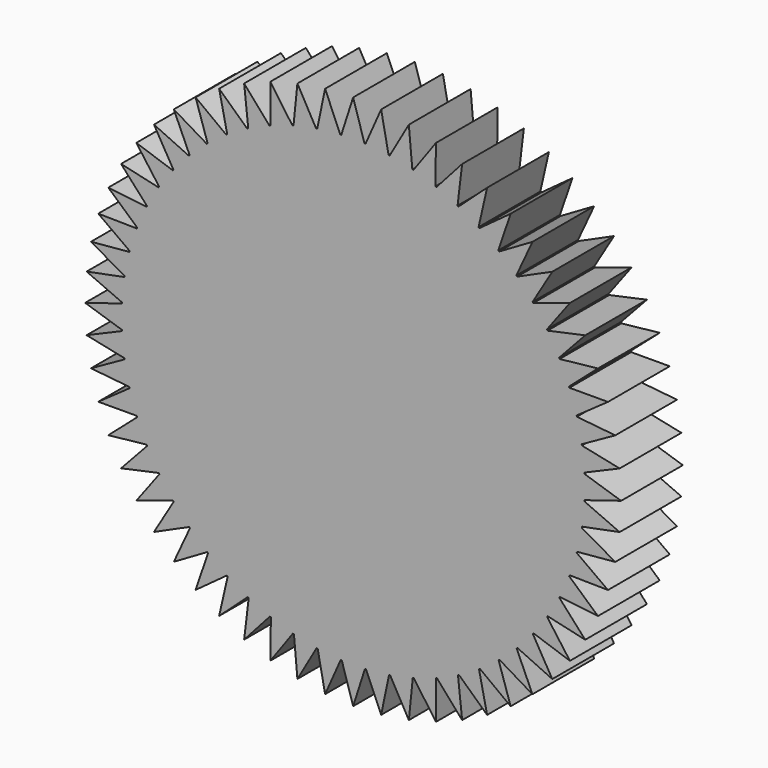
from build123d import *

# Parameters (mm, degrees)
F1_DEPTH = 12.7


with BuildPart() as f1:
    # F0 (on Front) → F1 (new body, symmetric)
    with BuildSketch(Plane.XZ):
        with BuildLine():
            ThreePointArc((76.108536, -3.732395), (76.177131, -1.866758), (76.2, 0))
            ThreePointArc((76.2, 0), (76.175187, 1.944436), (76.100766, 3.887605))
            ThreePointArc((76.100766, 3.887605), (76.091464, 4.065594), (76.081747, 4.24356))
            ThreePointArc((76.081747, 4.24356), (75.774407, 8.042342), (75.277512, 11.821005))
            ThreePointArc((75.277512, 11.821005), (75.249657, 11.997046), (75.22139, 12.173021))
            ThreePointArc((75.22139, 12.173021), (74.518653, 15.918867), (73.629503, 19.624891))
            ThreePointArc((73.629503, 19.624891), (73.583399, 19.797056), (73.536892, 19.969113))
            ThreePointArc((73.536892, 19.969113), (72.446457, 23.620982), (71.174793, 27.213762))
            ThreePointArc((71.174793, 27.213762), (71.110945, 27.380165), (71.046709, 27.546418))
            ThreePointArc((71.046709, 27.546418), (69.580523, 31.064301), (67.940277, 34.504474))
            ThreePointArc((67.940277, 34.504474), (67.859386, 34.663291), (67.778123, 34.821919))
            ThreePointArc((67.778123, 34.821919), (65.95225, 38.167272), (63.961394, 41.417148))
            ThreePointArc((63.961394, 41.417148), (63.864344, 41.56664), (63.766946, 41.715904))
            ThreePointArc((63.766946, 41.715904), (61.601391, 44.852076), (59.281736, 47.876046))
            ThreePointArc((59.281736, 47.876046), (59.169592, 48.014575), (59.057124, 48.152841))
            ThreePointArc((59.057124, 48.152841), (56.575613, 51.04547), (53.952575, 53.810405))
            ThreePointArc((53.952575, 53.810405), (53.826565, 53.936453), (53.700261, 54.062205))
            ThreePointArc((53.700261, 54.062205), (50.929982, 56.679599), (48.032298, 59.155206))
            ThreePointArc((48.032298, 59.155206), (47.893803, 59.267391), (47.755046, 59.379252))
            ThreePointArc((47.755046, 59.379252), (44.72635, 61.692735), (41.585769, 63.85189))
            ThreePointArc((41.585769, 63.85189), (41.436306, 63.948984), (41.286617, 64.045728))
            ThreePointArc((41.286617, 64.045728), (38.032688, 66.029953), (34.683618, 67.848999))
            ThreePointArc((34.683618, 67.848999), (34.524825, 67.929938), (34.365843, 68.010506))
            ThreePointArc((34.365843, 68.010506), (30.922331, 69.643732), (27.401466, 71.10274))
            ThreePointArc((27.401466, 71.10274), (27.235082, 71.166638), (27.068549, 71.230146))
            ThreePointArc((27.068549, 71.230146), (23.473183, 72.49448), (19.819098, 73.577465))
            ThreePointArc((19.819098, 73.577465), (19.646946, 73.623621), (19.474687, 73.669373))
            ThreePointArc((19.474687, 73.669373), (15.766858, 74.550964), (12.019587, 75.24606))
            ThreePointArc((12.019587, 75.24606), (11.843554, 75.273968), (11.667457, 75.301464))
            ThreePointArc((11.667457, 75.301464), (7.887788, 75.790651), (4.088388, 76.090243))
            ThreePointArc((4.088388, 76.090243), (3.910402, 76.099598), (3.732395, 76.108536))
            ThreePointArc((3.732395, 76.108536), (-0.077702, 76.19996), (-3.887605, 76.100766))
            ThreePointArc((-3.887605, 76.100766), (-4.065594, 76.091464), (-4.24356, 76.081747))
            ThreePointArc((-4.24356, 76.081747), (-8.042342, 75.774407), (-11.821005, 75.277512))
            ThreePointArc((-11.821005, 75.277512), (-11.997046, 75.249657), (-12.173021, 75.22139))
            ThreePointArc((-12.173021, 75.22139), (-15.918867, 74.518653), (-19.624891, 73.629503))
            ThreePointArc((-19.624891, 73.629503), (-19.797056, 73.583399), (-19.969113, 73.536892))
            ThreePointArc((-19.969113, 73.536892), (-23.620982, 72.446457), (-27.213762, 71.174793))
            ThreePointArc((-27.213762, 71.174793), (-27.380165, 71.110945), (-27.546418, 71.046709))
            ThreePointArc((-27.546418, 71.046709), (-31.064301, 69.580523), (-34.504474, 67.940277))
            ThreePointArc((-34.504474, 67.940277), (-34.663291, 67.859386), (-34.821919, 67.778123))
            ThreePointArc((-34.821919, 67.778123), (-38.167272, 65.95225), (-41.417148, 63.961394))
            ThreePointArc((-41.417148, 63.961394), (-41.56664, 63.864344), (-41.715904, 63.766946))
            ThreePointArc((-41.715904, 63.766946), (-44.852076, 61.601391), (-47.876046, 59.281736))
            ThreePointArc((-47.876046, 59.281736), (-48.014575, 59.169592), (-48.152841, 59.057124))
            ThreePointArc((-48.152841, 59.057124), (-51.04547, 56.575613), (-53.810405, 53.952575))
            ThreePointArc((-53.810405, 53.952575), (-53.936453, 53.826565), (-54.062205, 53.700261))
            ThreePointArc((-54.062205, 53.700261), (-56.679599, 50.929982), (-59.155206, 48.032298))
            ThreePointArc((-59.155206, 48.032298), (-59.267391, 47.893803), (-59.379252, 47.755046))
            ThreePointArc((-59.379252, 47.755046), (-61.692735, 44.72635), (-63.85189, 41.585769))
            ThreePointArc((-63.85189, 41.585769), (-63.948984, 41.436306), (-64.045728, 41.286617))
            ThreePointArc((-64.045728, 41.286617), (-66.029953, 38.032688), (-67.848999, 34.683618))
            ThreePointArc((-67.848999, 34.683618), (-67.929938, 34.524825), (-68.010506, 34.365843))
            ThreePointArc((-68.010506, 34.365843), (-69.643732, 30.922331), (-71.10274, 27.401466))
            ThreePointArc((-71.10274, 27.401466), (-71.166638, 27.235082), (-71.230146, 27.068549))
            ThreePointArc((-71.230146, 27.068549), (-72.49448, 23.473183), (-73.577465, 19.819098))
            ThreePointArc((-73.577465, 19.819098), (-73.623621, 19.646946), (-73.669373, 19.474687))
            ThreePointArc((-73.669373, 19.474687), (-74.550964, 15.766858), (-75.24606, 12.019587))
            ThreePointArc((-75.24606, 12.019587), (-75.273968, 11.843554), (-75.301464, 11.667457))
            ThreePointArc((-75.301464, 11.667457), (-75.790651, 7.887788), (-76.090243, 4.088388))
            ThreePointArc((-76.090243, 4.088388), (-76.099598, 3.910402), (-76.108536, 3.732395))
            ThreePointArc((-76.108536, 3.732395), (-76.19996, -0.077702), (-76.100766, -3.887605))
            ThreePointArc((-76.100766, -3.887605), (-76.091464, -4.065594), (-76.081747, -4.24356))
            ThreePointArc((-76.081747, -4.24356), (-75.774407, -8.042342), (-75.277512, -11.821005))
            ThreePointArc((-75.277512, -11.821005), (-75.249657, -11.997046), (-75.22139, -12.173021))
            ThreePointArc((-75.22139, -12.173021), (-74.518653, -15.918867), (-73.629503, -19.624891))
            ThreePointArc((-73.629503, -19.624891), (-73.583399, -19.797056), (-73.536892, -19.969113))
            ThreePointArc((-73.536892, -19.969113), (-72.446457, -23.620982), (-71.174793, -27.213762))
            ThreePointArc((-71.174793, -27.213762), (-71.110945, -27.380165), (-71.046709, -27.546418))
            ThreePointArc((-71.046709, -27.546418), (-69.580523, -31.064301), (-67.940277, -34.504474))
            ThreePointArc((-67.940277, -34.504474), (-67.859386, -34.663291), (-67.778123, -34.821919))
            ThreePointArc((-67.778123, -34.821919), (-65.95225, -38.167272), (-63.961394, -41.417148))
            ThreePointArc((-63.961394, -41.417148), (-63.864344, -41.56664), (-63.766946, -41.715904))
            ThreePointArc((-63.766946, -41.715904), (-61.601391, -44.852076), (-59.281736, -47.876046))
            ThreePointArc((-59.281736, -47.876046), (-59.169592, -48.014575), (-59.057124, -48.152841))
            ThreePointArc((-59.057124, -48.152841), (-56.575613, -51.04547), (-53.952575, -53.810405))
            ThreePointArc((-53.952575, -53.810405), (-53.826565, -53.936453), (-53.700261, -54.062205))
            ThreePointArc((-53.700261, -54.062205), (-50.929982, -56.679599), (-48.032298, -59.155206))
            ThreePointArc((-48.032298, -59.155206), (-47.893803, -59.267391), (-47.755046, -59.379252))
            ThreePointArc((-47.755046, -59.379252), (-44.72635, -61.692735), (-41.585769, -63.85189))
            ThreePointArc((-41.585769, -63.85189), (-41.436306, -63.948984), (-41.286617, -64.045728))
            ThreePointArc((-41.286617, -64.045728), (-38.032688, -66.029953), (-34.683618, -67.848999))
            ThreePointArc((-34.683618, -67.848999), (-34.524825, -67.929938), (-34.365843, -68.010506))
            ThreePointArc((-34.365843, -68.010506), (-30.922331, -69.643732), (-27.401466, -71.10274))
            ThreePointArc((-27.401466, -71.10274), (-27.235082, -71.166638), (-27.068549, -71.230146))
            ThreePointArc((-27.068549, -71.230146), (-23.473183, -72.49448), (-19.819098, -73.577465))
            ThreePointArc((-19.819098, -73.577465), (-19.646946, -73.623621), (-19.474687, -73.669373))
            ThreePointArc((-19.474687, -73.669373), (-15.766858, -74.550964), (-12.019587, -75.24606))
            ThreePointArc((-12.019587, -75.24606), (-11.843554, -75.273968), (-11.667457, -75.301464))
            ThreePointArc((-11.667457, -75.301464), (-7.887788, -75.790651), (-4.088388, -76.090243))
            ThreePointArc((-4.088388, -76.090243), (-3.910402, -76.099598), (-3.732395, -76.108536))
            ThreePointArc((-3.732395, -76.108536), (0.077702, -76.19996), (3.887605, -76.100766))
            ThreePointArc((3.887605, -76.100766), (4.065594, -76.091464), (4.24356, -76.081747))
            ThreePointArc((4.24356, -76.081747), (8.042342, -75.774407), (11.821005, -75.277512))
            ThreePointArc((11.821005, -75.277512), (11.997046, -75.249657), (12.173021, -75.22139))
            ThreePointArc((12.173021, -75.22139), (15.918867, -74.518653), (19.624891, -73.629503))
            ThreePointArc((19.624891, -73.629503), (19.797056, -73.583399), (19.969113, -73.536892))
            ThreePointArc((19.969113, -73.536892), (23.620982, -72.446457), (27.213762, -71.174793))
            ThreePointArc((27.213762, -71.174793), (27.380165, -71.110945), (27.546418, -71.046709))
            ThreePointArc((27.546418, -71.046709), (31.064301, -69.580523), (34.504474, -67.940277))
            ThreePointArc((34.504474, -67.940277), (34.663291, -67.859386), (34.821919, -67.778123))
            ThreePointArc((34.821919, -67.778123), (38.167272, -65.95225), (41.417148, -63.961394))
            ThreePointArc((41.417148, -63.961394), (41.56664, -63.864344), (41.715904, -63.766946))
            ThreePointArc((41.715904, -63.766946), (44.852076, -61.601391), (47.876046, -59.281736))
            ThreePointArc((47.876046, -59.281736), (48.014575, -59.169592), (48.152841, -59.057124))
            ThreePointArc((48.152841, -59.057124), (51.04547, -56.575613), (53.810405, -53.952575))
            ThreePointArc((53.810405, -53.952575), (53.936453, -53.826565), (54.062205, -53.700261))
            ThreePointArc((54.062205, -53.700261), (56.679599, -50.929982), (59.155206, -48.032298))
            ThreePointArc((59.155206, -48.032298), (59.267391, -47.893803), (59.379252, -47.755046))
            ThreePointArc((59.379252, -47.755046), (61.692735, -44.72635), (63.85189, -41.585769))
            ThreePointArc((63.85189, -41.585769), (63.948984, -41.436306), (64.045728, -41.286617))
            ThreePointArc((64.045728, -41.286617), (66.029953, -38.032688), (67.848999, -34.683618))
            ThreePointArc((67.848999, -34.683618), (67.929938, -34.524825), (68.010506, -34.365843))
            ThreePointArc((68.010506, -34.365843), (69.643732, -30.922331), (71.10274, -27.401466))
            ThreePointArc((71.10274, -27.401466), (71.166638, -27.235082), (71.230146, -27.068549))
            ThreePointArc((71.230146, -27.068549), (72.49448, -23.473183), (73.577465, -19.819098))
            ThreePointArc((73.577465, -19.819098), (73.623621, -19.646946), (73.669373, -19.474687))
            ThreePointArc((73.669373, -19.474687), (74.550964, -15.766858), (75.24606, -12.019587))
            ThreePointArc((75.24606, -12.019587), (75.273968, -11.843554), (75.301464, -11.667457))
            ThreePointArc((75.301464, -11.667457), (75.790651, -7.887788), (76.090243, -4.088388))
            ThreePointArc((76.090243, -4.088388), (76.099598, -3.910402), (76.108536, -3.732395))
        make_face()
        with BuildLine():
            ThreePointArc((76.100766, 3.887605), (76.175187, 1.944436), (76.2, 0))
            ThreePointArc((76.2, 0), (76.177131, -1.866758), (76.108536, -3.732395))
            Line((76.108536, -3.732395), (88.191114, 0))
            Line((88.191114, 0), (76.100766, 3.887605))
        make_face()
        with BuildLine():
            ThreePointArc((75.277512, 11.821005), (75.774407, 8.042342), (76.081747, 4.24356))
            Line((76.081747, 4.24356), (87.707994, 9.218482))
            Line((87.707994, 9.218482), (75.277512, 11.821005))
        make_face()
        with BuildLine():
            Line((87.707994, -9.218482), (76.090243, -4.088388))
            ThreePointArc((76.090243, -4.088388), (75.790651, -7.887788), (75.301464, -11.667457))
            Line((75.301464, -11.667457), (87.707994, -9.218482))
        make_face()
        with BuildLine():
            ThreePointArc((73.629503, 19.624891), (74.518653, 15.918867), (75.22139, 12.173021))
            Line((75.22139, 12.173021), (86.263927, 18.335964))
            Line((86.263927, 18.335964), (73.629503, 19.624891))
        make_face()
        with BuildLine():
            Line((86.263927, -18.335964), (75.24606, -12.019587))
            ThreePointArc((75.24606, -12.019587), (74.550964, -15.766858), (73.669373, -19.474687))
            Line((73.669373, -19.474687), (86.263927, -18.335964))
        make_face()
        with BuildLine():
            ThreePointArc((71.174793, 27.213762), (72.446457, 23.620982), (73.536892, 19.969113))
            Line((73.536892, 19.969113), (83.874734, 27.252553))
            Line((83.874734, 27.252553), (71.174793, 27.213762))
        make_face()
        with BuildLine():
            Line((83.874734, -27.252553), (73.577465, -19.819098))
            ThreePointArc((73.577465, -19.819098), (72.49448, -23.473183), (71.230146, -27.068549))
            Line((71.230146, -27.068549), (83.874734, -27.252553))
        make_face()
        with BuildLine():
            ThreePointArc((67.940277, 34.504474), (69.580523, 31.064301), (71.046709, 27.546418))
            Line((71.046709, 27.546418), (80.566592, 35.870558))
            Line((80.566592, 35.870558), (67.940277, 34.504474))
        make_face()
        with BuildLine():
            Line((80.566592, -35.870558), (71.10274, -27.401466))
            ThreePointArc((71.10274, -27.401466), (69.643732, -30.922331), (68.010506, -34.365843))
            Line((68.010506, -34.365843), (80.566592, -35.870558))
        make_face()
        with BuildLine():
            ThreePointArc((63.961394, 41.417148), (65.95225, 38.167272), (67.778123, 34.821919))
            Line((67.778123, 34.821919), (76.375745, 44.095557))
            Line((76.375745, 44.095557), (63.961394, 41.417148))
        make_face()
        with BuildLine():
            Line((76.375745, -44.095557), (67.848999, -34.683618))
            ThreePointArc((67.848999, -34.683618), (66.029953, -38.032688), (64.045728, -41.286617))
            Line((64.045728, -41.286617), (76.375745, -44.095557))
        make_face()
        with BuildLine():
            ThreePointArc((59.281736, 47.876046), (61.601391, 44.852076), (63.766946, 41.715904))
            Line((63.766946, 41.715904), (71.34811, 51.837436))
            Line((71.34811, 51.837436), (59.281736, 47.876046))
        make_face()
        with BuildLine():
            Line((71.34811, -51.837436), (63.85189, -41.585769))
            ThreePointArc((63.85189, -41.585769), (61.692735, -44.72635), (59.379252, -47.755046))
            Line((59.379252, -47.755046), (71.34811, -51.837436))
        make_face()
        with BuildLine():
            ThreePointArc((53.952575, 53.810405), (56.575613, 51.04547), (59.057124, 48.152841))
            Line((59.057124, 48.152841), (65.53877, 59.011374))
            Line((65.53877, 59.011374), (53.952575, 53.810405))
        make_face()
        with BuildLine():
            Line((65.53877, -59.011374), (59.155206, -48.032298))
            ThreePointArc((59.155206, -48.032298), (56.679599, -50.929982), (54.062205, -53.700261))
            Line((54.062205, -53.700261), (65.53877, -59.011374))
        make_face()
        with BuildLine():
            ThreePointArc((48.032298, 59.155206), (50.929982, 56.679599), (53.700261, 54.062205))
            Line((53.700261, 54.062205), (59.011374, 65.53877))
            Line((59.011374, 65.53877), (48.032298, 59.155206))
        make_face()
        with BuildLine():
            Line((59.011374, -65.53877), (53.810405, -53.952575))
            ThreePointArc((53.810405, -53.952575), (51.04547, -56.575613), (48.152841, -59.057124))
            Line((48.152841, -59.057124), (59.011374, -65.53877))
        make_face()
        with BuildLine():
            ThreePointArc((41.585769, 63.85189), (44.72635, 61.692735), (47.755046, 59.379252))
            Line((47.755046, 59.379252), (51.837436, 71.34811))
            Line((51.837436, 71.34811), (41.585769, 63.85189))
        make_face()
        with BuildLine():
            Line((51.837436, -71.34811), (47.876046, -59.281736))
            ThreePointArc((47.876046, -59.281736), (44.852076, -61.601391), (41.715904, -63.766946))
            Line((41.715904, -63.766946), (51.837436, -71.34811))
        make_face()
        with BuildLine():
            ThreePointArc((34.683618, 67.848999), (38.032688, 66.029953), (41.286617, 64.045728))
            Line((41.286617, 64.045728), (44.095557, 76.375745))
            Line((44.095557, 76.375745), (34.683618, 67.848999))
        make_face()
        with BuildLine():
            Line((44.095557, -76.375745), (41.417148, -63.961394))
            ThreePointArc((41.417148, -63.961394), (38.167272, -65.95225), (34.821919, -67.778123))
            Line((34.821919, -67.778123), (44.095557, -76.375745))
        make_face()
        with BuildLine():
            ThreePointArc((27.401466, 71.10274), (30.922331, 69.643732), (34.365843, 68.010506))
            Line((34.365843, 68.010506), (35.870558, 80.566592))
            Line((35.870558, 80.566592), (27.401466, 71.10274))
        make_face()
        with BuildLine():
            Line((35.870558, -80.566592), (34.504474, -67.940277))
            ThreePointArc((34.504474, -67.940277), (31.064301, -69.580523), (27.546418, -71.046709))
            Line((27.546418, -71.046709), (35.870558, -80.566592))
        make_face()
        with BuildLine():
            ThreePointArc((19.819098, 73.577465), (23.473183, 72.49448), (27.068549, 71.230146))
            Line((27.068549, 71.230146), (27.252553, 83.874734))
            Line((27.252553, 83.874734), (19.819098, 73.577465))
        make_face()
        with BuildLine():
            Line((27.252553, -83.874734), (27.213762, -71.174793))
            ThreePointArc((27.213762, -71.174793), (23.620982, -72.446457), (19.969113, -73.536892))
            Line((19.969113, -73.536892), (27.252553, -83.874734))
        make_face()
        with BuildLine():
            ThreePointArc((12.019587, 75.24606), (15.766858, 74.550964), (19.474687, 73.669373))
            Line((19.474687, 73.669373), (18.335964, 86.263927))
            Line((18.335964, 86.263927), (12.019587, 75.24606))
        make_face()
        with BuildLine():
            Line((18.335964, -86.263927), (19.624891, -73.629503))
            ThreePointArc((19.624891, -73.629503), (15.918867, -74.518653), (12.173021, -75.22139))
            Line((12.173021, -75.22139), (18.335964, -86.263927))
        make_face()
        with BuildLine():
            ThreePointArc((4.088388, 76.090243), (7.887788, 75.790651), (11.667457, 75.301464))
            Line((11.667457, 75.301464), (9.218482, 87.707994))
            Line((9.218482, 87.707994), (4.088388, 76.090243))
        make_face()
        with BuildLine():
            Line((9.218482, -87.707994), (11.821005, -75.277512))
            ThreePointArc((11.821005, -75.277512), (8.042342, -75.774407), (4.24356, -76.081747))
            Line((4.24356, -76.081747), (9.218482, -87.707994))
        make_face()
        with BuildLine():
            ThreePointArc((-3.887605, 76.100766), (-0.077702, 76.19996), (3.732395, 76.108536))
            Line((3.732395, 76.108536), (0, 88.191114))
            Line((0, 88.191114), (-3.887605, 76.100766))
        make_face()
        with BuildLine():
            Line((0, -88.191114), (3.887605, -76.100766))
            ThreePointArc((3.887605, -76.100766), (0.077702, -76.19996), (-3.732395, -76.108536))
            Line((-3.732395, -76.108536), (0, -88.191114))
        make_face()
        with BuildLine():
            ThreePointArc((-11.821005, 75.277512), (-8.042342, 75.774407), (-4.24356, 76.081747))
            Line((-4.24356, 76.081747), (-9.218482, 87.707994))
            Line((-9.218482, 87.707994), (-11.821005, 75.277512))
        make_face()
        with BuildLine():
            Line((-9.218482, -87.707994), (-4.088388, -76.090243))
            ThreePointArc((-4.088388, -76.090243), (-7.887788, -75.790651), (-11.667457, -75.301464))
            Line((-11.667457, -75.301464), (-9.218482, -87.707994))
        make_face()
        with BuildLine():
            ThreePointArc((-19.624891, 73.629503), (-15.918867, 74.518653), (-12.173021, 75.22139))
            Line((-12.173021, 75.22139), (-18.335964, 86.263927))
            Line((-18.335964, 86.263927), (-19.624891, 73.629503))
        make_face()
        with BuildLine():
            Line((-18.335964, -86.263927), (-12.019587, -75.24606))
            ThreePointArc((-12.019587, -75.24606), (-15.766858, -74.550964), (-19.474687, -73.669373))
            Line((-19.474687, -73.669373), (-18.335964, -86.263927))
        make_face()
        with BuildLine():
            ThreePointArc((-27.213762, 71.174793), (-23.620982, 72.446457), (-19.969113, 73.536892))
            Line((-19.969113, 73.536892), (-27.252553, 83.874734))
            Line((-27.252553, 83.874734), (-27.213762, 71.174793))
        make_face()
        with BuildLine():
            Line((-27.252553, -83.874734), (-19.819098, -73.577465))
            ThreePointArc((-19.819098, -73.577465), (-23.473183, -72.49448), (-27.068549, -71.230146))
            Line((-27.068549, -71.230146), (-27.252553, -83.874734))
        make_face()
        with BuildLine():
            ThreePointArc((-34.504474, 67.940277), (-31.064301, 69.580523), (-27.546418, 71.046709))
            Line((-27.546418, 71.046709), (-35.870558, 80.566592))
            Line((-35.870558, 80.566592), (-34.504474, 67.940277))
        make_face()
        with BuildLine():
            Line((-35.870558, -80.566592), (-27.401466, -71.10274))
            ThreePointArc((-27.401466, -71.10274), (-30.922331, -69.643732), (-34.365843, -68.010506))
            Line((-34.365843, -68.010506), (-35.870558, -80.566592))
        make_face()
        with BuildLine():
            ThreePointArc((-41.417148, 63.961394), (-38.167272, 65.95225), (-34.821919, 67.778123))
            Line((-34.821919, 67.778123), (-44.095557, 76.375745))
            Line((-44.095557, 76.375745), (-41.417148, 63.961394))
        make_face()
        with BuildLine():
            Line((-44.095557, -76.375745), (-34.683618, -67.848999))
            ThreePointArc((-34.683618, -67.848999), (-38.032688, -66.029953), (-41.286617, -64.045728))
            Line((-41.286617, -64.045728), (-44.095557, -76.375745))
        make_face()
        with BuildLine():
            ThreePointArc((-47.876046, 59.281736), (-44.852076, 61.601391), (-41.715904, 63.766946))
            Line((-41.715904, 63.766946), (-51.837436, 71.34811))
            Line((-51.837436, 71.34811), (-47.876046, 59.281736))
        make_face()
        with BuildLine():
            Line((-51.837436, -71.34811), (-41.585769, -63.85189))
            ThreePointArc((-41.585769, -63.85189), (-44.72635, -61.692735), (-47.755046, -59.379252))
            Line((-47.755046, -59.379252), (-51.837436, -71.34811))
        make_face()
        with BuildLine():
            ThreePointArc((-53.810405, 53.952575), (-51.04547, 56.575613), (-48.152841, 59.057124))
            Line((-48.152841, 59.057124), (-59.011374, 65.53877))
            Line((-59.011374, 65.53877), (-53.810405, 53.952575))
        make_face()
        with BuildLine():
            Line((-59.011374, -65.53877), (-48.032298, -59.155206))
            ThreePointArc((-48.032298, -59.155206), (-50.929982, -56.679599), (-53.700261, -54.062205))
            Line((-53.700261, -54.062205), (-59.011374, -65.53877))
        make_face()
        with BuildLine():
            ThreePointArc((-59.155206, 48.032298), (-56.679599, 50.929982), (-54.062205, 53.700261))
            Line((-54.062205, 53.700261), (-65.53877, 59.011374))
            Line((-65.53877, 59.011374), (-59.155206, 48.032298))
        make_face()
        with BuildLine():
            Line((-65.53877, -59.011374), (-53.952575, -53.810405))
            ThreePointArc((-53.952575, -53.810405), (-56.575613, -51.04547), (-59.057124, -48.152841))
            Line((-59.057124, -48.152841), (-65.53877, -59.011374))
        make_face()
        with BuildLine():
            ThreePointArc((-63.85189, 41.585769), (-61.692735, 44.72635), (-59.379252, 47.755046))
            Line((-59.379252, 47.755046), (-71.34811, 51.837436))
            Line((-71.34811, 51.837436), (-63.85189, 41.585769))
        make_face()
        with BuildLine():
            Line((-71.34811, -51.837436), (-59.281736, -47.876046))
            ThreePointArc((-59.281736, -47.876046), (-61.601391, -44.852076), (-63.766946, -41.715904))
            Line((-63.766946, -41.715904), (-71.34811, -51.837436))
        make_face()
        with BuildLine():
            ThreePointArc((-67.848999, 34.683618), (-66.029953, 38.032688), (-64.045728, 41.286617))
            Line((-64.045728, 41.286617), (-76.375745, 44.095557))
            Line((-76.375745, 44.095557), (-67.848999, 34.683618))
        make_face()
        with BuildLine():
            Line((-76.375745, -44.095557), (-63.961394, -41.417148))
            ThreePointArc((-63.961394, -41.417148), (-65.95225, -38.167272), (-67.778123, -34.821919))
            Line((-67.778123, -34.821919), (-76.375745, -44.095557))
        make_face()
        with BuildLine():
            ThreePointArc((-71.10274, 27.401466), (-69.643732, 30.922331), (-68.010506, 34.365843))
            Line((-68.010506, 34.365843), (-80.566592, 35.870558))
            Line((-80.566592, 35.870558), (-71.10274, 27.401466))
        make_face()
        with BuildLine():
            Line((-80.566592, -35.870558), (-67.940277, -34.504474))
            ThreePointArc((-67.940277, -34.504474), (-69.580523, -31.064301), (-71.046709, -27.546418))
            Line((-71.046709, -27.546418), (-80.566592, -35.870558))
        make_face()
        with BuildLine():
            ThreePointArc((-73.577465, 19.819098), (-72.49448, 23.473183), (-71.230146, 27.068549))
            Line((-71.230146, 27.068549), (-83.874734, 27.252553))
            Line((-83.874734, 27.252553), (-73.577465, 19.819098))
        make_face()
        with BuildLine():
            Line((-83.874734, -27.252553), (-71.174793, -27.213762))
            ThreePointArc((-71.174793, -27.213762), (-72.446457, -23.620982), (-73.536892, -19.969113))
            Line((-73.536892, -19.969113), (-83.874734, -27.252553))
        make_face()
        with BuildLine():
            ThreePointArc((-75.24606, 12.019587), (-74.550964, 15.766858), (-73.669373, 19.474687))
            Line((-73.669373, 19.474687), (-86.263927, 18.335964))
            Line((-86.263927, 18.335964), (-75.24606, 12.019587))
        make_face()
        with BuildLine():
            Line((-86.263927, -18.335964), (-73.629503, -19.624891))
            ThreePointArc((-73.629503, -19.624891), (-74.518653, -15.918867), (-75.22139, -12.173021))
            Line((-75.22139, -12.173021), (-86.263927, -18.335964))
        make_face()
        with BuildLine():
            ThreePointArc((-76.090243, 4.088388), (-75.790651, 7.887788), (-75.301464, 11.667457))
            Line((-75.301464, 11.667457), (-87.707994, 9.218482))
            Line((-87.707994, 9.218482), (-76.090243, 4.088388))
        make_face()
        with BuildLine():
            Line((-87.707994, -9.218482), (-75.277512, -11.821005))
            ThreePointArc((-75.277512, -11.821005), (-75.774407, -8.042342), (-76.081747, -4.24356))
            Line((-76.081747, -4.24356), (-87.707994, -9.218482))
        make_face()
        with BuildLine():
            ThreePointArc((-76.100766, -3.887605), (-76.19996, -0.077702), (-76.108536, 3.732395))
            Line((-76.108536, 3.732395), (-88.191114, 0))
            Line((-88.191114, 0), (-76.100766, -3.887605))
        make_face()
    extrude(amount=F1_DEPTH, both=True)


solid = f1.part
